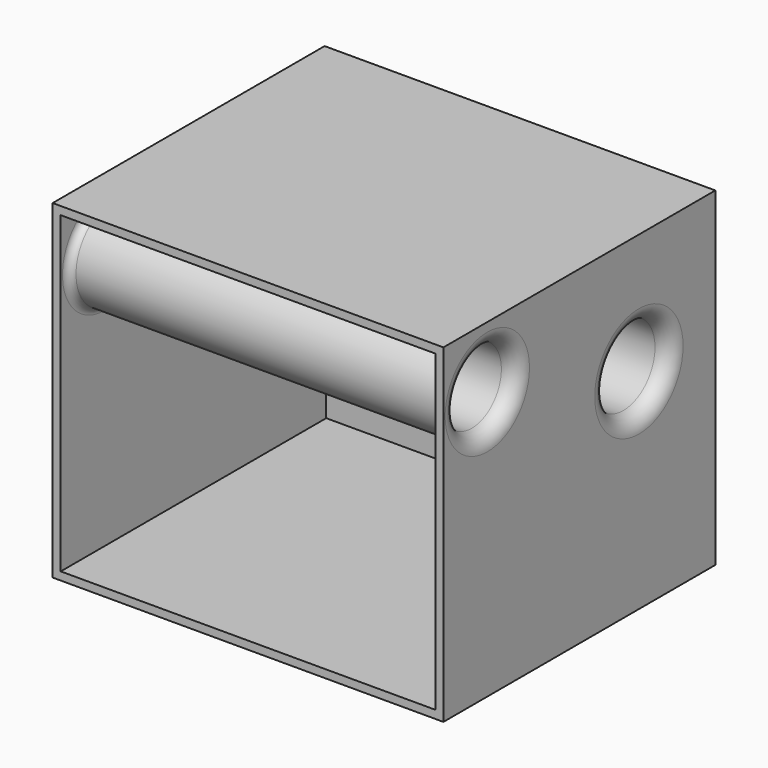
from build123d import *

# Parameters (mm, degrees)
F0_W     = 122.928169
F0_H     = 103.73117
F1_DEPTH = 106.934
F2_R     = 11.671591
F2_R_2   = 12.465758
F3_DEPTH = 122.929169
F4_R     = 4.905682
F5_T     = -2.54


with BuildPart() as f1:
    # F0 (on Front) → F1 (new body)
    with BuildSketch(Plane.XZ):
        with Locations((0.505184, -0.168398)):
            Rectangle(F0_W, F0_H)
    extrude(amount=F1_DEPTH)

    # F2 (on face) → F3 (cut, through all)
    with BuildSketch(Plane.YZ.offset(61.969269)):
        with Locations((-89.671873, 32.331791)):
            Circle(F2_R)
        with Locations((-30.060131, 13.808369)):
            Circle(F2_R_2)
    extrude(amount=-F3_DEPTH, mode=Mode.SUBTRACT)

    # F4
    f4_edges = [f1.edges().sort_by_distance(p)[0] for p in [
        (61.969269, -101.343463, 32.331791),
        (61.969269, -42.525889, 13.808369),
        (-60.9589, -101.343463, 32.331791),
        (-60.9589, -42.525889, 13.808369),
    ]]
    fillet(f4_edges, radius=F4_R)

    # F5
    f5_openings = [f1.faces().sort_by_distance(p)[0] for p in [
        (0.505185, -106.934, -0.168398),
    ]]
    offset(amount=F5_T, openings=f5_openings)


solid = f1.part
